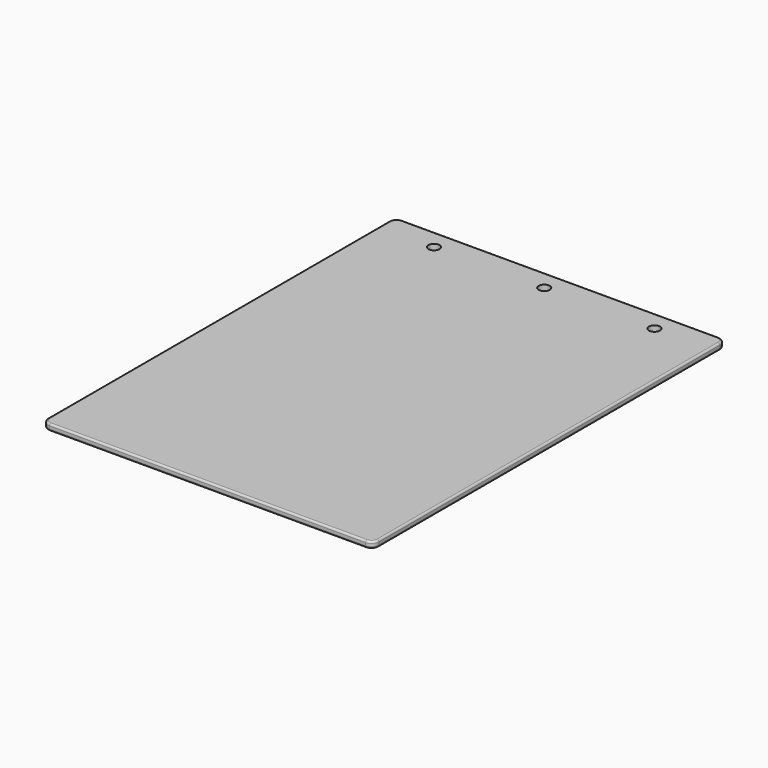
from build123d import *

# Parameters (mm, degrees)
F0_W     = 228.6
F0_H     = 304.8
F1_DEPTH = 4.5
F2_R     = 5.08
F3_R     = 1.27
F4_R     = 3.821327
F5_DEPTH = 4.5


with BuildPart() as f1:
    # F0 (on Top) → F1 (new body)
    with BuildSketch(Plane.XY):
        with Locations((78.054795, 101.540847)):
            Rectangle(F0_W, F0_H)
    extrude(amount=F1_DEPTH)

    # F2
    f2_edges = [f1.edges().sort_by_distance(p)[0] for p in [
        (-36.245205, 253.940847, 2.25),
        (192.354795, 253.940847, 2.25),
        (-36.245205, -50.859153, 2.25),
        (192.354795, -50.859153, 2.25),
    ]]
    fillet(f2_edges, radius=F2_R)

    # F3
    f3_edges = [f1.edges().sort_by_distance(p)[0] for p in [
        (78.054795, -50.859153, 0),
        (-31.165205, -50.859153, 2.25),
        (187.274795, -50.859153, 2.25),
        (78.054795, -50.859153, 4.5),
    ]]
    fillet(f3_edges, radius=F3_R)

    # F4 (on face) → F5 (cut)
    with BuildSketch(Plane.XY.offset(4.5)):
        with Locations((1.854795, 239.970847)):
            Circle(F4_R)
        with Locations((78.054795, 239.970847)):
            Circle(F4_R)
        with Locations((154.254795, 239.970847)):
            Circle(F4_R)
    extrude(amount=-F5_DEPTH, mode=Mode.SUBTRACT)


solid = f1.part
